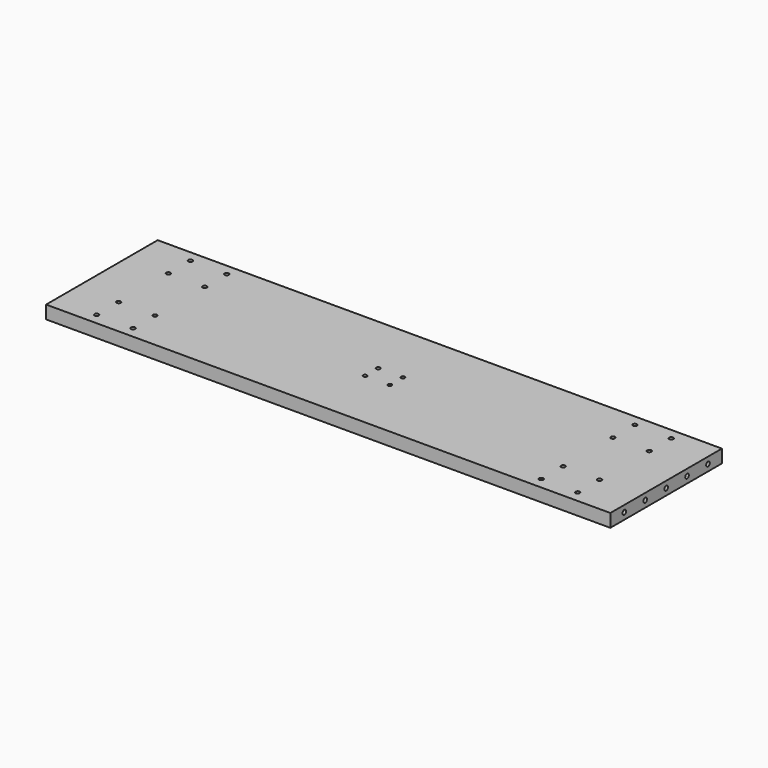
from build123d import *

# Parameters (mm, degrees)
F0_W      = 822.0456
F0_H      = 203.2
F1_DEPTH  = 19.05
F2_R      = 3.048
F3_DEPTH  = 19.051
F4_R      = 2.794
F5_DEPTH  = 19.051
F6_R      = 3.302
F7_DEPTH  = 12.7
F8_R      = 3.302
F9_DEPTH  = 12.7
F10_R     = 5.461
F11_DEPTH = 3.81
F12_R     = 4.699
F13_DEPTH = 3.048


with BuildPart() as f1:
    # F0 (on Top) → F1 (new body)
    with BuildSketch(Plane.XY):
        Rectangle(F0_W, F0_H)
    extrude(amount=F1_DEPTH)

    # F2 (on face) → F3 (cut, through all)
    with BuildSketch(Plane.XY.offset(19.05)):
        with Locations((-350.3422, 85.2678)):
            Circle(F2_R)
        with Locations((-297.3324, 85.2678)):
            Circle(F2_R)
        with Locations((-350.3422, 45.2628)):
            Circle(F2_R)
        with Locations((-297.3324, 45.2628)):
            Circle(F2_R)
        with Locations((-350.3422, -45.2628)):
            Circle(F2_R)
        with Locations((-297.3324, -45.2628)):
            Circle(F2_R)
        with Locations((297.3324, 85.2678)):
            Circle(F2_R)
        with Locations((350.3422, 85.2678)):
            Circle(F2_R)
        with Locations((297.3324, 45.2628)):
            Circle(F2_R)
        with Locations((350.3422, 45.2628)):
            Circle(F2_R)
        with Locations((297.3324, -45.2628)):
            Circle(F2_R)
        with Locations((350.3422, -45.2628)):
            Circle(F2_R)
        with Locations((297.3324, -85.2678)):
            Circle(F2_R)
        with Locations((350.3422, -85.2678)):
            Circle(F2_R)
        with Locations((-350.3422, -85.2678)):
            Circle(F2_R)
        with Locations((-297.3324, -85.2678)):
            Circle(F2_R)
    extrude(amount=-F3_DEPTH, mode=Mode.SUBTRACT)

    # F4 (on face) → F5 (cut, through all)
    with BuildSketch(Plane.XY.offset(19.05)):
        with Locations((-17.9959, 11.938)):
            Circle(F4_R)
        with Locations((17.9959, 11.938)):
            Circle(F4_R)
        with Locations((-17.9959, -11.938)):
            Circle(F4_R)
        with Locations((17.9959, -11.938)):
            Circle(F4_R)
    extrude(amount=-F5_DEPTH, mode=Mode.SUBTRACT)

    # F6 (on face) → F7 (cut)
    with BuildSketch(Plane.YZ.offset(411.0228)):
        with Locations((-76.2, 9.525)):
            Circle(F6_R)
        with Locations((-38.1, 9.525)):
            Circle(F6_R)
        with Locations((0, 9.525)):
            Circle(F6_R)
        with Locations((38.1, 9.525)):
            Circle(F6_R)
        with Locations((76.2, 9.525)):
            Circle(F6_R)
    extrude(amount=-F7_DEPTH, mode=Mode.SUBTRACT)

    # F8 (on face) → F9 (cut)
    with BuildSketch(Plane(origin=(-411.0228, 0, 0), x_dir=(0, -1, 0), z_dir=(-1, 0, 0))):
        with Locations((-76.2, 9.525)):
            Circle(F8_R)
        with Locations((-38.1, 9.525)):
            Circle(F8_R)
        with Locations((0, 9.525)):
            Circle(F8_R)
        with Locations((38.1, 9.525)):
            Circle(F8_R)
        with Locations((76.2, 9.525)):
            Circle(F8_R)
    extrude(amount=-F9_DEPTH, mode=Mode.SUBTRACT)

    # F10 (on face) → F11 (cut)
    with BuildSketch(Plane(origin=(0, 0, 0), x_dir=(1, 0, 0), z_dir=(0, 0, -1))):
        with Locations((-350.3422, 85.2678)):
            Circle(F10_R)
        with Locations((-350.3422, 45.2628)):
            Circle(F10_R)
        with Locations((-297.3324, 85.2678)):
            Circle(F10_R)
        with Locations((-297.3324, 45.2628)):
            Circle(F10_R)
        with Locations((-350.3422, -45.2628)):
            Circle(F10_R)
        with Locations((-297.3324, -45.2628)):
            Circle(F10_R)
        with Locations((-297.3324, -85.2678)):
            Circle(F10_R)
        with Locations((-350.3422, -85.2678)):
            Circle(F10_R)
        with Locations((297.3324, 85.2678)):
            Circle(F10_R)
        with Locations((297.3324, 45.2628)):
            Circle(F10_R)
        with Locations((350.3422, 85.2678)):
            Circle(F10_R)
        with Locations((350.3422, 45.2628)):
            Circle(F10_R)
        with Locations((297.3324, -45.2628)):
            Circle(F10_R)
        with Locations((297.3324, -85.2678)):
            Circle(F10_R)
        with Locations((350.3422, -45.2628)):
            Circle(F10_R)
        with Locations((350.3422, -85.2678)):
            Circle(F10_R)
    extrude(amount=-F11_DEPTH, mode=Mode.SUBTRACT)

    # F12 (on face) → F13 (cut)
    with BuildSketch(Plane(origin=(0, 0, 0), x_dir=(1, 0, 0), z_dir=(0, 0, -1))):
        with Locations((-17.9959, 11.938)):
            Circle(F12_R)
        with Locations((-17.9959, -11.938)):
            Circle(F12_R)
        with Locations((17.9959, -11.938)):
            Circle(F12_R)
        with Locations((17.9959, 11.938)):
            Circle(F12_R)
    extrude(amount=-F13_DEPTH, mode=Mode.SUBTRACT)


solid = f1.part
